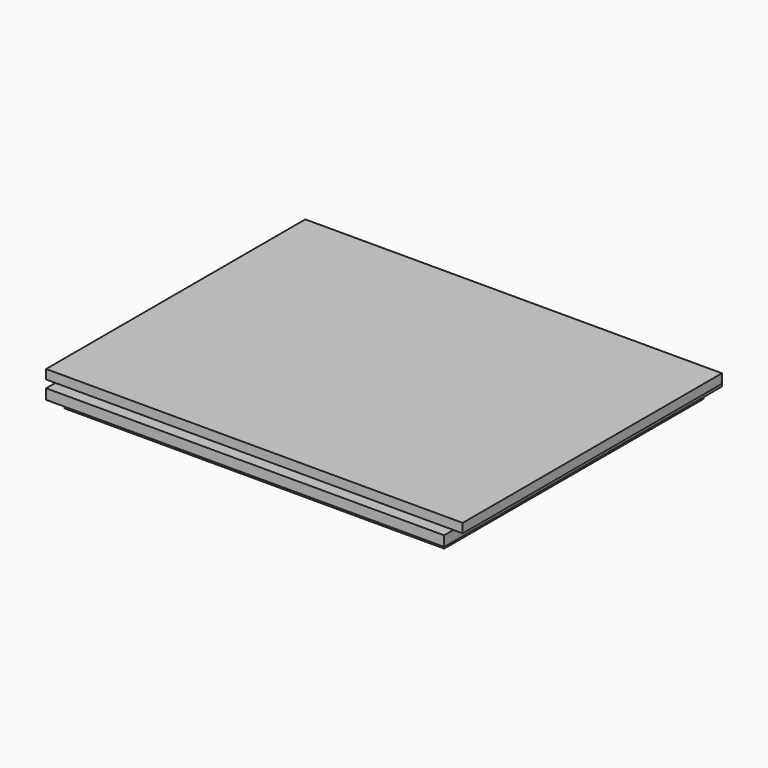
from build123d import *

# Parameters (mm, degrees)
F0_W     = 114.3
F0_H     = 88.9
F1_DEPTH = 2.54
F2_W     = 109.22
F2_H     = 3.175
F2_H_2   = 88.9
F3_DEPTH = 2.794
F4_W     = 104.14
F4_H     = 88.9
F5_DEPTH = 2.54


with BuildPart() as f1:
    # F0 (on Top) → F1 (new body)
    with BuildSketch(Plane.XY):
        Rectangle(F0_W, F0_H)
    extrude(amount=-F1_DEPTH)

    # F2 (on face) → F3 (join)
    with BuildSketch(Plane(origin=(0, 0, -2.54), x_dir=(1, 0, 0), z_dir=(0, 0, -1))):
        with Locations((0, 46.0375)):
            Rectangle(F2_W, F2_H)
        Rectangle(F2_W, F2_H_2)
        with Locations((0, -46.0375)):
            Rectangle(F2_W, F2_H)
    extrude(amount=F3_DEPTH)

    # F4 (on face) → F5 (join)
    with BuildSketch(Plane(origin=(0, 0, -5.334), x_dir=(1, 0, 0), z_dir=(0, 0, -1))):
        Rectangle(F4_W, F4_H)
    extrude(amount=F5_DEPTH)


solid = f1.part
